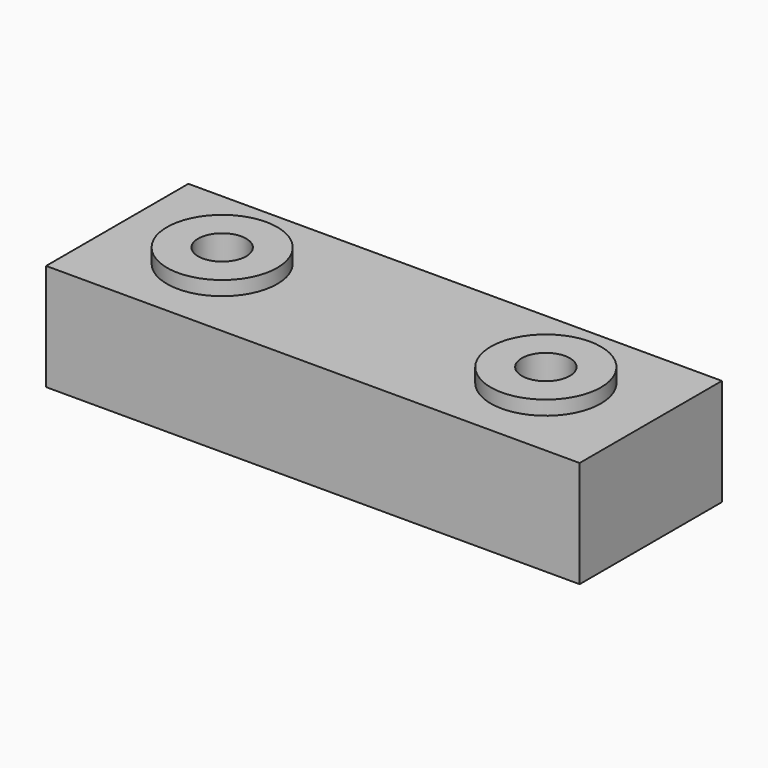
from build123d import *

# Parameters (mm, degrees)
F0_W     = 30
F0_H     = 10
F0_R     = 1.35
F1_DEPTH = 6
F2_R     = 3.1
F2_R_2   = 1.35
F3_DEPTH = 0.8


with BuildPart() as f1:
    # F0 (on Top) → F1 (new body)
    with BuildSketch(Plane.XY):
        Rectangle(F0_W, F0_H)
        with Locations((-9.1, 0)):
            Circle(F0_R, mode=Mode.SUBTRACT)
        with Locations((9.1, 0)):
            Circle(F0_R, mode=Mode.SUBTRACT)
    extrude(amount=F1_DEPTH)

    # F2 (on face) → F3 (join)
    with BuildSketch(Plane.XY.offset(6)):
        with Locations((-9.1, 0)):
            Circle(F2_R)
        with Locations((-9.1, 0)):
            Circle(F2_R_2, mode=Mode.SUBTRACT)
        with Locations((9.1, 0)):
            Circle(F2_R)
        with Locations((9.1, 0)):
            Circle(F2_R_2, mode=Mode.SUBTRACT)
    extrude(amount=F3_DEPTH)


solid = f1.part
